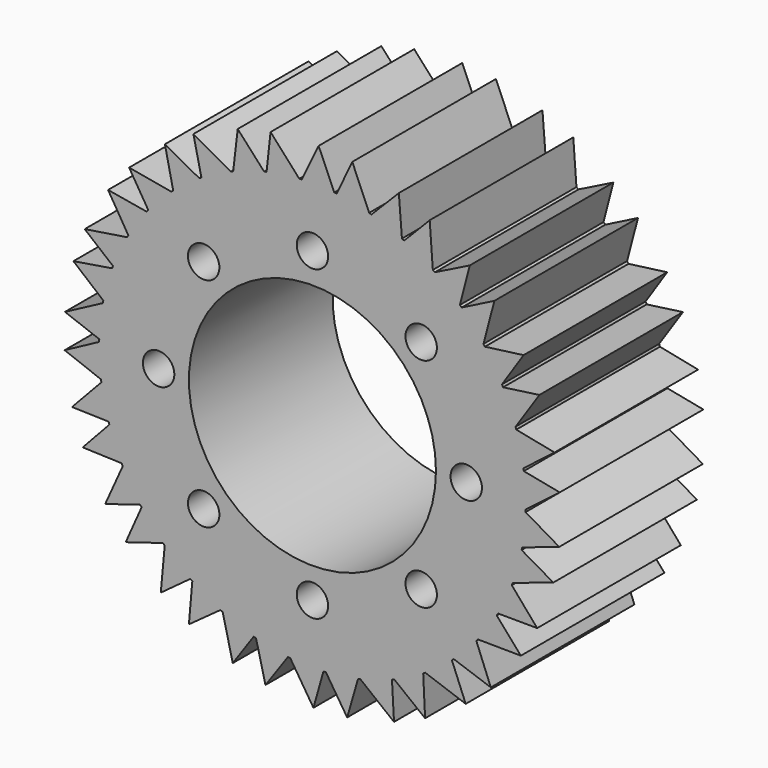
from build123d import *

# Parameters (mm, degrees)
F0_R     = 0.889
F0_R_2   = 6.99135
F1_DEPTH = 10.16


with BuildPart() as f1:
    # F0 (on Front) → F1 (new body)
    with BuildSketch(Plane.XZ):
        with BuildLine():
            ThreePointArc((11.943427, 1.752725), (11.775457, 2.656331), (11.539226, 3.544539))
            ThreePointArc((11.539226, 3.544539), (11.518481, 3.611384), (11.497349, 3.678106))
            ThreePointArc((11.497349, 3.678106), (11.177641, 4.558272), (10.790668, 5.411006))
            Line((10.790668, 5.411006), (10.630219, 5.388687))
            Line((10.630219, 5.388687), (10.72719, 5.535782))
            ThreePointArc((10.72719, 5.535782), (10.274921, 6.335889), (9.763089, 7.099267))
            ThreePointArc((9.763089, 7.099267), (9.721763, 7.155753), (9.680111, 7.211999))
            ThreePointArc((9.680111, 7.211999), (9.091937, 7.940666), (8.449049, 8.621547))
            Line((8.449049, 8.621547), (8.30454, 8.548339))
            Line((8.30454, 8.548339), (8.348496, 8.718951))
            ThreePointArc((8.348496, 8.718951), (7.660938, 9.328854), (6.928969, 9.884679))
            ThreePointArc((6.928969, 9.884679), (6.871542, 9.924686), (6.813884, 9.96436))
            ThreePointArc((6.813884, 9.96436), (6.020981, 10.462566), (5.191844, 10.897809))
            Line((5.191844, 10.897809), (5.078936, 10.781646))
            Line((5.078936, 10.781646), (5.065113, 10.957286))
            ThreePointArc((5.065113, 10.957286), (4.216773, 11.310894), (3.343989, 11.598932))
            ThreePointArc((3.343989, 11.598932), (3.276683, 11.618126), (3.209266, 11.636928))
            ThreePointArc((3.209266, 11.636928), (2.297558, 11.850684), (1.372023, 11.993125))
            Line((1.372023, 11.993125), (1.302951, 11.846595))
            Line((1.302951, 11.846595), (1.232846, 12.00823))
            ThreePointArc((1.232846, 12.00823), (0.315656, 12.067222), (-0.603365, 12.056262))
            ThreePointArc((-0.603365, 12.056262), (-0.673256, 12.052561), (-0.743125, 12.048455))
            ThreePointArc((-0.743125, 12.048455), (-1.674841, 11.954597), (-2.596478, 11.788799))
            Line((-2.596478, 11.788799), (-2.61423, 11.627781))
            Line((-2.61423, 11.627781), (-2.733019, 11.757895))
            ThreePointArc((-2.733019, 11.757895), (-3.619668, 11.51588), (-4.485335, 11.207108))
            ThreePointArc((-4.485335, 11.207108), (-4.550237, 11.180914), (-4.614987, 11.154344))
            ThreePointArc((-4.614987, 11.154344), (-5.465745, 10.763044), (-6.283611, 10.306975))
            Line((-6.283611, 10.306975), (-6.248118, 10.148917))
            Line((-6.248118, 10.148917), (-6.402719, 10.23341))
            ThreePointArc((-6.402719, 10.23341), (-7.162745, 9.716614), (-7.881249, 9.14349))
            ThreePointArc((-7.881249, 9.14349), (-7.93413, 9.097641), (-7.986744, 9.051487))
            ThreePointArc((-7.986744, 9.051487), (-8.664351, 8.405148), (-9.289817, 7.708229))
            Line((-9.289817, 7.708229), (-9.204926, 7.57026))
            Line((-9.204926, 7.57026), (-9.378585, 7.599977))
            ThreePointArc((-9.378585, 7.599977), (-9.929627, 6.864401), (-10.423107, 6.089033))
            ThreePointArc((-10.423107, 6.089033), (-10.458236, 6.028498), (-10.493013, 5.967761))
            ThreePointArc((-10.493013, 5.967761), (-10.924039, 5.136424), (-11.289327, 4.274178))
            Line((-11.289327, 4.274178), (-11.164237, 4.171248))
            Line((-11.164237, 4.171248), (-11.338135, 4.142967))
            ThreePointArc((-11.338135, 4.142967), (-11.62048, 3.268324), (-11.83546, 2.374735))
            ThreePointArc((-11.83546, 2.374735), (-11.84903, 2.306074), (-11.862201, 2.237335))
            ThreePointArc((-11.862201, 2.237335), (-11.999939, 1.311089), (-12.065463, 0.376953))
            Line((-12.065463, 0.376953), (-11.91373, 0.320216))
            Line((-11.91373, 0.320216), (-12.069023, 0.237004))
            ThreePointArc((-12.069023, 0.237004), (-12.052073, -0.681926), (-11.965258, -1.596902))
            ThreePointArc((-11.965258, -1.596902), (-11.955798, -1.666249), (-11.945936, -1.73554))
            ThreePointArc((-11.945936, -1.73554), (-11.775459, -2.656323), (-11.534119, -3.561121))
            Line((-11.534119, -3.561121), (-11.372185, -3.565515))
            Line((-11.372185, -3.565515), (-11.492045, -3.694643))
            ThreePointArc((-11.492045, -3.694643), (-11.177638, -4.558279), (-10.798434, -5.395491))
            ThreePointArc((-10.798434, -5.395491), (-10.76697, -5.458009), (-10.735143, -5.520343))
            ThreePointArc((-10.735143, -5.520343), (-10.274925, -6.335882), (-9.752875, -7.113292))
            Line((-9.752875, -7.113292), (-9.598288, -7.064868))
            Line((-9.598288, -7.064868), (-9.669726, -7.225918))
            ThreePointArc((-9.669726, -7.225918), (-9.091932, -7.940672), (-8.461432, -8.609394))
            ThreePointArc((-8.461432, -8.609394), (-8.411373, -8.658308), (-8.361031, -8.706931))
            ThreePointArc((-8.361031, -8.706931), (-7.660944, -9.328849), (-6.914755, -9.894628))
            Line((-6.914755, -9.894628), (-6.784267, -9.798633))
            Line((-6.784267, -9.798633), (-6.799541, -9.974153))
            ThreePointArc((-6.799541, -9.974153), (-6.020974, -10.46257), (-5.207503, -10.890335))
            ThreePointArc((-5.207503, -10.890335), (-5.144274, -10.920345), (-5.080872, -10.949988))
            ThreePointArc((-5.080872, -10.949988), (-4.216781, -11.310891), (-3.327314, -11.603727))
            Line((-3.327314, -11.603727), (-3.235066, -11.470564))
            Line((-3.235066, -11.470564), (-3.192521, -11.641533))
            ThreePointArc((-3.192521, -11.641533), (-2.29755, -11.850686), (-1.38926, -11.99114))
            ThreePointArc((-1.38926, -11.99114), (-1.319712, -11.998994), (-1.250121, -12.006444))
            ThreePointArc((-1.250121, -12.006444), (-0.315664, -12.067222), (0.620693, -12.055382))
            Line((0.620693, -12.055382), (0.664705, -11.899481))
            Line((0.664705, -11.899481), (0.760458, -12.047373))
            ThreePointArc((0.760458, -12.047373), (1.674849, -11.954596), (2.579531, -11.792519))
            ThreePointArc((2.579531, -11.792519), (2.64786, -11.777365), (2.7161, -11.761815))
            ThreePointArc((2.7161, -11.761815), (3.61966, -11.515882), (4.501438, -11.200649))
            Line((4.501438, -11.200649), (4.492445, -11.038905))
            Line((4.492445, -11.038905), (4.63103, -11.147693))
            ThreePointArc((4.63103, -11.147693), (5.465752, -10.763041), (6.26879, -10.315996))
            ThreePointArc((6.26879, -10.315996), (6.328496, -10.279476), (6.387989, -10.242611))
            ThreePointArc((6.387989, -10.242611), (7.162738, -9.716618), (7.894383, -9.132153))
            Line((7.894383, -9.132153), (7.833359, -8.982092))
            Line((7.833359, -8.982092), (7.999758, -9.039987))
            ThreePointArc((7.999758, -9.039987), (8.664356, -8.405143), (9.278728, -7.721574))
            ThreePointArc((9.278728, -7.721574), (9.323341, -7.667646), (9.367641, -7.613461))
            ThreePointArc((9.367641, -7.613461), (9.929622, -6.864408), (10.431848, -6.074046))
            Line((10.431848, -6.074046), (10.325406, -5.95193))
            Line((10.325406, -5.95193), (10.501588, -5.952658))
            ThreePointArc((10.501588, -5.952658), (10.924043, -5.136417), (11.283172, -4.2904))
            ThreePointArc((11.283172, -4.2904), (11.307857, -4.224908), (11.332163, -4.159275))
            ThreePointArc((11.332163, -4.159275), (11.620477, -3.268332), (11.838861, -2.357721))
            Line((11.838861, -2.357721), (11.698536, -2.276785))
            Line((11.698536, -2.276785), (11.865408, -2.220267))
            ThreePointArc((11.865408, -2.220267), (11.99994, -1.311081), (12.064909, -0.394294))
            ThreePointArc((12.064909, -0.394294), (12.066992, -0.324336), (12.06867, -0.254367))
            ThreePointArc((12.06867, -0.254367), (12.07068, -0.12719), (12.07135, 0))
            ThreePointArc((12.07135, 0), (12.04422, 0.808867), (11.96295, 1.614099))
            Line((11.96295, 1.614099), (11.803948, 1.645086))
            Line((11.803948, 1.645086), (11.943427, 1.752725))
        make_face()
        with Locations((-6.155966, -6.155966)):
            Circle(F0_R, mode=Mode.SUBTRACT)
        with Locations((0, -8.70585)):
            Circle(F0_R, mode=Mode.SUBTRACT)
        with Locations((6.155966, -6.155966)):
            Circle(F0_R, mode=Mode.SUBTRACT)
        with Locations((-8.70585, 0)):
            Circle(F0_R, mode=Mode.SUBTRACT)
        with Locations((-6.155966, 6.155966)):
            Circle(F0_R, mode=Mode.SUBTRACT)
        Circle(F0_R_2, mode=Mode.SUBTRACT)
        with Locations((6.155966, 6.155966)):
            Circle(F0_R, mode=Mode.SUBTRACT)
        with Locations((8.70585, 0)):
            Circle(F0_R, mode=Mode.SUBTRACT)
        with Locations((0, 8.70585)):
            Circle(F0_R, mode=Mode.SUBTRACT)
        with BuildLine():
            Line((13.700336, 3.108562), (11.539226, 3.544539))
            ThreePointArc((11.539226, 3.544539), (11.775457, 2.656331), (11.943427, 1.752725))
            Line((11.943427, 1.752725), (13.700336, 3.108562))
        make_face()
        with BuildLine():
            ThreePointArc((10.790668, 5.411006), (11.177641, 4.558272), (11.497349, 3.678106))
            Line((11.497349, 3.678106), (12.84432, 5.696679))
            Line((12.84432, 5.696679), (10.790668, 5.411006))
        make_face()
        with BuildLine():
            ThreePointArc((11.96295, 1.614099), (11.95339, 1.68344), (11.943427, 1.752725))
            Line((11.943427, 1.752725), (11.803948, 1.645086))
            Line((11.803948, 1.645086), (11.96295, 1.614099))
        make_face()
        with BuildLine():
            Line((10.630219, 5.388687), (10.790668, 5.411006))
            ThreePointArc((10.790668, 5.411006), (10.75911, 5.473486), (10.72719, 5.535782))
            Line((10.72719, 5.535782), (10.630219, 5.388687))
        make_face()
        with BuildLine():
            Line((13.998087, 1.217473), (11.96295, 1.614099))
            ThreePointArc((11.96295, 1.614099), (12.04422, 0.808867), (12.07135, 0))
            ThreePointArc((12.07135, 0), (12.07068, -0.12719), (12.06867, -0.254367))
            Line((12.06867, -0.254367), (13.998087, 1.217473))
        make_face()
        with BuildLine():
            ThreePointArc((9.763089, 7.099267), (10.274921, 6.335889), (10.72719, 5.535782))
            Line((10.72719, 5.535782), (11.948666, 7.388623))
            Line((11.948666, 7.388623), (9.763089, 7.099267))
        make_face()
        with BuildLine():
            ThreePointArc((8.449049, 8.621547), (9.091937, 7.940666), (9.680111, 7.211999))
            Line((9.680111, 7.211999), (10.29867, 9.558561))
            Line((10.29867, 9.558561), (8.449049, 8.621547))
        make_face()
        with BuildLine():
            Line((13.967363, -1.50836), (12.064909, -0.394294))
            ThreePointArc((12.064909, -0.394294), (11.99994, -1.311081), (11.865408, -2.220267))
            Line((11.865408, -2.220267), (13.967363, -1.50836))
        make_face()
        with BuildLine():
            Line((8.30454, 8.548339), (8.449049, 8.621547))
            ThreePointArc((8.449049, 8.621547), (8.398914, 8.670394), (8.348496, 8.718951))
            Line((8.348496, 8.718951), (8.30454, 8.548339))
        make_face()
        with BuildLine():
            ThreePointArc((11.838861, -2.357721), (11.852334, -2.289033), (11.865408, -2.220267))
            Line((11.865408, -2.220267), (11.698536, -2.276785))
            Line((11.698536, -2.276785), (11.838861, -2.357721))
        make_face()
        with BuildLine():
            ThreePointArc((6.928969, 9.884679), (7.660938, 9.328854), (8.348496, 8.718951))
            Line((8.348496, 8.718951), (8.902172, 10.868013))
            Line((8.902172, 10.868013), (6.928969, 9.884679))
        make_face()
        with BuildLine():
            Line((13.634945, -3.393664), (11.838861, -2.357721))
            ThreePointArc((11.838861, -2.357721), (11.620477, -3.268332), (11.332163, -4.159275))
            Line((11.332163, -4.159275), (13.634945, -3.393664))
        make_face()
        with BuildLine():
            ThreePointArc((5.191844, 10.897809), (6.020981, 10.462566), (6.813884, 9.96436))
            Line((6.813884, 9.96436), (6.637, 12.384624))
            Line((6.637, 12.384624), (5.191844, 10.897809))
        make_face()
        with BuildLine():
            Line((12.720809, -5.961829), (11.283172, -4.2904))
            ThreePointArc((11.283172, -4.2904), (10.924043, -5.136417), (10.501588, -5.952658))
            Line((10.501588, -5.952658), (12.720809, -5.961829))
        make_face()
        with BuildLine():
            Line((5.078936, 10.781646), (5.191844, 10.897809))
            ThreePointArc((5.191844, 10.897809), (5.128565, 10.927731), (5.065113, 10.957286))
            Line((5.065113, 10.957286), (5.078936, 10.781646))
        make_face()
        with BuildLine():
            ThreePointArc((10.431848, -6.074046), (10.466894, -6.013453), (10.501588, -5.952658))
            Line((10.501588, -5.952658), (10.325406, -5.95193))
            Line((10.325406, -5.95193), (10.431848, -6.074046))
        make_face()
        with BuildLine():
            ThreePointArc((3.343989, 11.598932), (4.216773, 11.310894), (5.065113, 10.957286))
            Line((5.065113, 10.957286), (4.89099, 13.169685))
            Line((4.89099, 13.169685), (3.343989, 11.598932))
        make_face()
        with BuildLine():
            Line((11.794245, -7.637046), (10.431848, -6.074046))
            ThreePointArc((10.431848, -6.074046), (9.929622, -6.864408), (9.367641, -7.613461))
            Line((9.367641, -7.613461), (11.794245, -7.637046))
        make_face()
        with BuildLine():
            ThreePointArc((1.372023, 11.993125), (2.297558, 11.850684), (3.209266, 11.636928))
            Line((3.209266, 11.636928), (2.256109, 13.868622))
            Line((2.256109, 13.868622), (1.372023, 11.993125))
        make_face()
        with BuildLine():
            Line((10.095758, -9.76924), (9.278728, -7.721574))
            ThreePointArc((9.278728, -7.721574), (8.664356, -8.405143), (7.999758, -9.039987))
            Line((7.999758, -9.039987), (10.095758, -9.76924))
        make_face()
        with BuildLine():
            Line((1.302951, 11.846595), (1.372023, 11.993125))
            ThreePointArc((1.372023, 11.993125), (1.302456, 12.000879), (1.232846, 12.00823))
            Line((1.232846, 12.00823), (1.302951, 11.846595))
        make_face()
        with BuildLine():
            ThreePointArc((7.894383, -9.132153), (7.947204, -9.086223), (7.999758, -9.039987))
            Line((7.999758, -9.039987), (7.833359, -8.982092))
            Line((7.833359, -8.982092), (7.894383, -9.132153))
        make_face()
        with BuildLine():
            ThreePointArc((-0.603365, 12.056262), (0.315656, 12.067222), (1.232846, 12.00823))
            Line((1.232846, 12.00823), (0.349793, 14.044217))
            Line((0.349793, 14.044217), (-0.603365, 12.056262))
        make_face()
        with BuildLine():
            Line((8.675456, -11.052835), (7.894383, -9.132153))
            ThreePointArc((7.894383, -9.132153), (7.162738, -9.716618), (6.387989, -10.242611))
            Line((6.387989, -10.242611), (8.675456, -11.052835))
        make_face()
        with BuildLine():
            ThreePointArc((-2.596478, 11.788799), (-1.674841, 11.954597), (-0.743125, 12.048455))
            Line((-0.743125, 12.048455), (-2.369268, 13.849739))
            Line((-2.369268, 13.849739), (-2.596478, 11.788799))
        make_face()
        with BuildLine():
            Line((6.376675, -12.518003), (6.26879, -10.315996))
            ThreePointArc((6.26879, -10.315996), (5.465752, -10.763041), (4.63103, -11.147693))
            Line((4.63103, -11.147693), (6.376675, -12.518003))
        make_face()
        with BuildLine():
            Line((-2.61423, 11.627781), (-2.596478, 11.788799))
            ThreePointArc((-2.596478, 11.788799), (-2.664793, 11.773545), (-2.733019, 11.757895))
            Line((-2.733019, 11.757895), (-2.61423, 11.627781))
        make_face()
        with BuildLine():
            ThreePointArc((4.501438, -11.200649), (4.566311, -11.174359), (4.63103, -11.147693))
            Line((4.63103, -11.147693), (4.492445, -11.038905))
            Line((4.492445, -11.038905), (4.501438, -11.200649))
        make_face()
        with BuildLine():
            ThreePointArc((-4.485335, 11.207108), (-3.619668, 11.51588), (-2.733019, 11.757895))
            Line((-2.733019, 11.757895), (-4.229309, 13.39684))
            Line((-4.229309, 13.39684), (-4.485335, 11.207108))
        make_face()
        with BuildLine():
            Line((4.616546, -13.270878), (4.501438, -11.200649))
            ThreePointArc((4.501438, -11.200649), (3.61966, -11.515882), (2.7161, -11.761815))
            Line((2.7161, -11.761815), (4.616546, -13.270878))
        make_face()
        with BuildLine():
            ThreePointArc((-6.283611, 10.306975), (-5.465745, 10.763044), (-4.614987, 11.154344))
            Line((-4.614987, 11.154344), (-6.737897, 12.330022))
            Line((-6.737897, 12.330022), (-6.283611, 10.306975))
        make_face()
        with BuildLine():
            Line((1.96658, -13.910246), (2.579531, -11.792519))
            ThreePointArc((2.579531, -11.792519), (1.674849, -11.954596), (0.760458, -12.047373))
            Line((0.760458, -12.047373), (1.96658, -13.910246))
        make_face()
        with BuildLine():
            Line((-6.248118, 10.148917), (-6.283611, 10.306975))
            ThreePointArc((-6.283611, 10.306975), (-6.343271, 10.270365), (-6.402719, 10.23341))
            Line((-6.402719, 10.23341), (-6.248118, 10.148917))
        make_face()
        with BuildLine():
            ThreePointArc((0.620693, -12.055382), (0.690587, -12.05158), (0.760458, -12.047373))
            Line((0.760458, -12.047373), (0.664705, -11.899481))
            Line((0.664705, -11.899481), (0.620693, -12.055382))
        make_face()
        with BuildLine():
            ThreePointArc((-7.881249, 9.14349), (-7.162745, 9.716614), (-6.402719, 10.23341))
            Line((-6.402719, 10.23341), (-8.350101, 11.297707))
            Line((-8.350101, 11.297707), (-7.881249, 9.14349))
        make_face()
        with BuildLine():
            Line((0.057362, -14.050815), (0.620693, -12.055382))
            ThreePointArc((0.620693, -12.055382), (-0.315664, -12.067222), (-1.250121, -12.006444))
            Line((-1.250121, -12.006444), (0.057362, -14.050815))
        make_face()
        with BuildLine():
            ThreePointArc((-9.289817, 7.708229), (-8.664351, 8.405148), (-7.986744, 9.051487))
            Line((-7.986744, 9.051487), (-10.376371, 9.474155))
            Line((-10.376371, 9.474155), (-9.289817, 7.708229))
        make_face()
        with BuildLine():
            Line((-2.656624, -13.795098), (-1.38926, -11.99114))
            ThreePointArc((-1.38926, -11.99114), (-2.29755, -11.850686), (-3.192521, -11.641533))
            Line((-3.192521, -11.641533), (-2.656624, -13.795098))
        make_face()
        with BuildLine():
            Line((-9.204926, 7.57026), (-9.289817, 7.708229))
            ThreePointArc((-9.289817, 7.708229), (-9.334357, 7.654232), (-9.378585, 7.599977))
            Line((-9.378585, 7.599977), (-9.204926, 7.57026))
        make_face()
        with BuildLine():
            ThreePointArc((-3.327314, -11.603727), (-3.259972, -11.622825), (-3.192521, -11.641533))
            Line((-3.192521, -11.641533), (-3.235066, -11.470564))
            Line((-3.235066, -11.470564), (-3.327314, -11.603727))
        make_face()
        with BuildLine():
            ThreePointArc((-10.423107, 6.089033), (-9.929627, 6.864401), (-9.378585, 7.599977))
            Line((-9.378585, 7.599977), (-11.566029, 7.974293))
            Line((-11.566029, 7.974293), (-10.423107, 6.089033))
        make_face()
        with BuildLine():
            Line((-4.508038, -13.308128), (-3.327314, -11.603727))
            ThreePointArc((-3.327314, -11.603727), (-4.216781, -11.310891), (-5.080872, -10.949988))
            Line((-5.080872, -10.949988), (-4.508038, -13.308128))
        make_face()
        with BuildLine():
            ThreePointArc((-11.289327, 4.274178), (-10.924039, 5.136424), (-10.493013, 5.967761))
            Line((-10.493013, 5.967761), (-12.890404, 5.591618))
            Line((-12.890404, 5.591618), (-11.289327, 4.274178))
        make_face()
        with BuildLine():
            Line((-6.991942, -12.185037), (-5.207503, -10.890335))
            ThreePointArc((-5.207503, -10.890335), (-6.020974, -10.46257), (-6.799541, -9.974153))
            Line((-6.799541, -9.974153), (-6.991942, -12.185037))
        make_face()
        with BuildLine():
            Line((-11.164237, 4.171248), (-11.289327, 4.274178))
            ThreePointArc((-11.289327, 4.274178), (-11.313921, 4.208643), (-11.338135, 4.142967))
            Line((-11.338135, 4.142967), (-11.164237, 4.171248))
        make_face()
        with BuildLine():
            ThreePointArc((-6.914755, -9.894628), (-6.857263, -9.934557), (-6.799541, -9.974153))
            Line((-6.799541, -9.974153), (-6.784267, -9.798633))
            Line((-6.784267, -9.798633), (-6.914755, -9.894628))
        make_face()
        with BuildLine():
            ThreePointArc((-11.83546, 2.374735), (-11.62048, 3.268324), (-11.338135, 4.142967))
            Line((-11.338135, 4.142967), (-13.528598, 3.786741))
            Line((-13.528598, 3.786741), (-11.83546, 2.374735))
        make_face()
        with BuildLine():
            Line((-8.584923, -11.1233), (-6.914755, -9.894628))
            ThreePointArc((-6.914755, -9.894628), (-7.660944, -9.328849), (-8.361031, -8.706931))
            Line((-8.361031, -8.706931), (-8.584923, -11.1233))
        make_face()
        with BuildLine():
            ThreePointArc((-12.065463, 0.376953), (-11.999939, 1.311089), (-11.862201, 2.237335))
            Line((-11.862201, 2.237335), (-14.007561, 1.103141))
            Line((-14.007561, 1.103141), (-12.065463, 0.376953))
        make_face()
        with BuildLine():
            Line((-10.569574, -9.254538), (-8.461432, -8.609394))
            ThreePointArc((-8.461432, -8.609394), (-9.091932, -7.940672), (-9.669726, -7.225918))
            Line((-9.669726, -7.225918), (-10.569574, -9.254538))
        make_face()
        with BuildLine():
            Line((-11.91373, 0.320216), (-12.065463, 0.376953))
            ThreePointArc((-12.065463, 0.376953), (-12.067446, 0.306983), (-12.069023, 0.237004))
            Line((-12.069023, 0.237004), (-11.91373, 0.320216))
        make_face()
        with BuildLine():
            ThreePointArc((-9.752875, -7.113292), (-9.711463, -7.169726), (-9.669726, -7.225918))
            Line((-9.669726, -7.225918), (-9.598288, -7.064868))
            Line((-9.598288, -7.064868), (-9.752875, -7.113292))
        make_face()
        with BuildLine():
            ThreePointArc((-11.965258, -1.596902), (-12.052073, -0.681926), (-12.069023, 0.237004))
            Line((-12.069023, 0.237004), (-14.025134, -0.811164))
            Line((-14.025134, -0.811164), (-11.965258, -1.596902))
        make_face()
        with BuildLine():
            Line((-11.731497, -7.733089), (-9.752875, -7.113292))
            ThreePointArc((-9.752875, -7.113292), (-10.274925, -6.335882), (-10.735143, -5.520343))
            Line((-10.735143, -5.520343), (-11.731497, -7.733089))
        make_face()
        with BuildLine():
            ThreePointArc((-11.534119, -3.561121), (-11.775459, -2.656323), (-11.945936, -1.73554))
            Line((-11.945936, -1.73554), (-13.606782, -3.504878))
            Line((-13.606782, -3.504878), (-11.534119, -3.561121))
        make_face()
        with BuildLine():
            Line((-13.001829, -5.321167), (-10.798434, -5.395491))
            ThreePointArc((-10.798434, -5.395491), (-11.177638, -4.558279), (-11.492045, -3.694643))
            Line((-11.492045, -3.694643), (-13.001829, -5.321167))
        make_face()
        with BuildLine():
            Line((-11.372185, -3.565515), (-11.534119, -3.561121))
            ThreePointArc((-11.534119, -3.561121), (-11.513276, -3.627943), (-11.492045, -3.694643))
            Line((-11.492045, -3.694643), (-11.372185, -3.565515))
        make_face()
    extrude(amount=F1_DEPTH)


solid = f1.part
